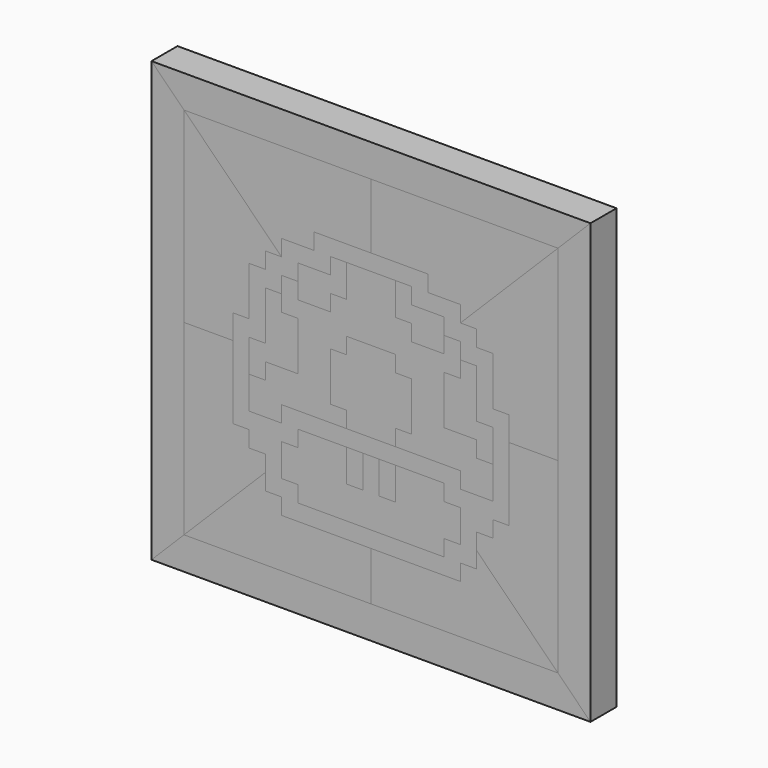
from build123d import *

# Parameters (mm, degrees)
F1_DEPTH = 25.4
F2_DEPTH = 25.4
F3_DEPTH = 25.4
F4_DEPTH = 25.4
F0_W     = 12.7
F0_H     = 25.4
F5_DEPTH = 25.4
F6_DEPTH = 25.4
F7_DEPTH = 25.4


with BuildPart() as f1:
    # F0 (on Front) → F1 (new body)
    with BuildSketch(Plane.XZ):
        Polygon((171.45, 171.45), (-171.45, 171.45), (-146.05, 146.05), (0, 146.05), (146.05, 146.05), align=None)
        Polygon((-146.05, -146.05), (-171.45, -171.45), (171.45, -171.45), (146.05, -146.05), (0, -146.05), align=None)
        Polygon((-146.05, 0), (-146.05, -146.05), (-82.49177, -82.49177), (-82.49177, -69.819165), (-95.191733, -69.849955), (-95.191733, -57.149955), (-107.891733, -57.149955), (-107.891733, 0), align=None)
        Polygon((82.49177, -82.49177), (146.05, -146.05), (146.05, 0), (107.891733, 0), (107.891733, -57.149955), (95.191733, -57.149955), (95.191733, -69.849955), (82.49177, -69.819165), align=None)
    extrude(amount=F1_DEPTH)


with BuildPart() as f2:
    # F0 (on Front) → F2 (new body)
    with BuildSketch(Plane.XZ):
        Polygon((-146.05, 146.05), (-171.45, 171.45), (-171.45, -171.45), (-146.05, -146.05), (-146.05, 0), align=None)
        Polygon((171.45, -171.45), (171.45, 171.45), (146.05, 146.05), (146.05, 0), (146.05, -146.05), align=None)
        Polygon((-82.49177, -82.49177), (-146.05, -146.05), (0, -146.05), (0, -107.91921), (-69.79177, -107.91921), (-69.79177, -95.21921), (-82.49177, -95.21921), align=None)
        Polygon((-19.05, -19.05), (-19.05, -31.75), (19.05, -31.75), (19.05, -19.05), (31.75, -19.05), (31.75, 19.05), (19.05, 19.05), (19.05, 31.75), (-19.05, 31.75), (-19.05, 19.05), (-31.75, 19.05), (-31.75, -19.05), align=None)
    extrude(amount=F2_DEPTH)


with BuildPart() as f3:
    # F0 (on Front) → F3 (new body)
    with BuildSketch(Plane.XZ):
        Polygon((0, -146.05), (146.05, -146.05), (82.49177, -82.49177), (82.49177, -95.21921), (69.79177, -95.21921), (69.79177, -107.91921), (0, -107.91921), align=None)
        Polygon((-69.85, 69.85), (-146.05, 146.05), (-146.05, 0), (-107.891733, 0), (-107.891733, 19.050045), (-95.191733, 19.050045), (-95.25, 57.15), (-82.55, 57.15), (-82.55, 69.85), align=None)
        Polygon((69.85, 69.85), (146.05, 146.05), (0, 146.05), (0, 95.25), (44.45, 95.25), (44.45, 82.55), (69.85, 82.55), align=None)
    extrude(amount=F3_DEPTH)


with BuildPart() as f4:
    # F0 (on Front) → F4 (new body)
    with BuildSketch(Plane.XZ):
        Polygon((0, 146.05), (-146.05, 146.05), (-69.85, 69.85), (-69.85, 82.55), (-44.45, 82.55), (-44.45, 95.25), (0, 95.25), align=None)
        Polygon((146.05, 0), (146.05, 146.05), (69.85, 69.85), (82.55, 69.85), (82.55, 57.15), (95.25, 57.15), (95.191733, 19.050045), (107.891733, 19.050045), (107.891733, 0), align=None)
        Polygon((-95.191733, -44.45), (-69.791733, -44.45), (-69.791733, -31.75), (-19.05, -31.75), (-19.05, -19.05), (-31.75, -19.05), (-31.75, 19.05), (-19.05, 19.05), (-19.05, 31.75), (19.05, 31.75), (19.05, 19.05), (31.75, 19.05), (31.75, -19.05), (19.05, -19.05), (19.05, -31.75), (69.791733, -31.75), (69.791733, -44.45), (95.191733, -44.45), (95.191733, -19.05), (82.491733, -19.05), (82.491733, -6.35), (57.091733, -6.35), (57.091733, 31.75), (69.791733, 31.75), (69.791733, 44.45), (69.791733, 57.15), (57.091733, 57.15), (57.091733, 44.45), (31.691733, 44.45), (31.691733, 57.15), (18.991733, 57.15), (18.991733, 82.55), (0, 82.55), (-18.991733, 82.55), (-18.991733, 57.15), (-31.691733, 57.15), (-31.691733, 44.45), (-57.091733, 44.45), (-57.091733, 57.15), (-69.791733, 57.15), (-69.791733, 44.45), (-69.791733, 31.75), (-57.091733, 31.75), (-57.091733, -6.35), (-82.491733, -6.35), (-82.491733, -19.05), (-95.191733, -19.05), align=None)
    extrude(amount=F4_DEPTH)


with BuildPart() as f5:
    # F0 (on Front) → F5 (new body)
    with BuildSketch(Plane.XZ):
        with Locations((-12.7, -57.15)):
            Rectangle(F0_W, F0_H)
        with Locations((12.7, -57.15)):
            Rectangle(F0_W, F0_H)
        Polygon((82.491733, -19.05), (95.191733, -19.05), (95.191733, 6.35), (82.491733, 6.35), (82.491733, 44.45), (69.791733, 44.45), (69.791733, 31.75), (57.091733, 31.75), (57.091733, -6.35), (82.491733, -6.35), align=None)
        Polygon((57.091733, 44.45), (57.091733, 57.15), (57.091733, 69.85), (31.691733, 69.85), (31.691733, 82.55), (18.991733, 82.55), (18.991733, 57.15), (31.691733, 57.15), (31.691733, 44.45), align=None)
        Polygon((-57.091733, 69.85), (-57.091733, 57.15), (-57.091733, 44.45), (-31.691733, 44.45), (-31.691733, 57.15), (-18.991733, 57.15), (-18.991733, 82.55), (-31.691733, 82.55), (-31.691733, 69.85), align=None)
        Polygon((-95.191733, 6.35), (-95.191733, -19.05), (-82.491733, -19.05), (-82.491733, -6.35), (-57.091733, -6.35), (-57.091733, 31.75), (-69.791733, 31.75), (-69.791733, 44.45), (-82.491733, 44.45), (-82.491733, 6.35), align=None)
    extrude(amount=F5_DEPTH)


with BuildPart() as f6:
    # F0 (on Front) → F6 (new body)
    with BuildSketch(Plane.XZ):
        Polygon((-57.091733, -82.55), (-57.091733, -95.21921), (0, -95.21921), (57.091733, -95.21921), (57.091733, -82.55), (69.791733, -82.55), (69.791733, -57.15), (57.091733, -57.15), (57.091733, -44.45), (19.05, -44.45), (19.05, -69.85), (6.35, -69.85), (6.35, -44.45), (0, -44.45), (-6.35, -44.45), (-6.35, -69.85), (-19.05, -69.85), (-19.05, -44.45), (-57.091733, -44.45), (-57.091733, -57.15), (-69.791733, -57.15), (-69.791733, -82.55), align=None)
    extrude(amount=F6_DEPTH)


with BuildPart() as f7:
    # F0 (on Front) → F7 (new body)
    with BuildSketch(Plane.XZ):
        Polygon((-69.85, 82.55), (-69.85, 69.85), (-82.55, 69.85), (-82.55, 57.15), (-95.25, 57.15), (-95.191733, 19.050045), (-107.891733, 19.050045), (-107.891733, 0), (-107.891733, -57.149955), (-95.191733, -57.149955), (-95.191733, -69.849955), (-82.49177, -69.819165), (-82.49177, -82.49177), (-82.49177, -95.21921), (-69.79177, -95.21921), (-69.79177, -107.91921), (0, -107.91921), (69.79177, -107.91921), (69.79177, -95.21921), (82.49177, -95.21921), (82.49177, -82.49177), (82.49177, -69.819165), (95.191733, -69.849955), (95.191733, -57.149955), (107.891733, -57.149955), (107.891733, 0), (107.891733, 19.050045), (95.191733, 19.050045), (95.25, 57.15), (82.55, 57.15), (82.55, 69.85), (69.85, 69.85), (69.85, 82.55), (44.45, 82.55), (44.45, 95.25), (0, 95.25), (-44.45, 95.25), (-44.45, 82.55), align=None)
        Polygon((0, -95.21921), (-57.091733, -95.21921), (-57.091733, -82.55), (-69.791733, -82.55), (-69.791733, -57.15), (-57.091733, -57.15), (-57.091733, -44.45), (-19.05, -44.45), (-6.35, -44.45), (0, -44.45), (6.35, -44.45), (19.05, -44.45), (57.091733, -44.45), (57.091733, -57.15), (69.791733, -57.15), (69.791733, -82.55), (57.091733, -82.55), (57.091733, -95.21921), align=None, mode=Mode.SUBTRACT)
        Polygon((-69.791733, -31.75), (-69.791733, -44.45), (-95.191733, -44.45), (-95.191733, -19.05), (-95.191733, 6.35), (-82.491733, 6.35), (-82.491733, 44.45), (-69.791733, 44.45), (-69.791733, 57.15), (-57.091733, 57.15), (-57.091733, 69.85), (-31.691733, 69.85), (-31.691733, 82.55), (-18.991733, 82.55), (0, 82.55), (18.991733, 82.55), (31.691733, 82.55), (31.691733, 69.85), (57.091733, 69.85), (57.091733, 57.15), (69.791733, 57.15), (69.791733, 44.45), (82.491733, 44.45), (82.491733, 6.35), (95.191733, 6.35), (95.191733, -19.05), (95.191733, -44.45), (69.791733, -44.45), (69.791733, -31.75), (19.05, -31.75), (-19.05, -31.75), align=None, mode=Mode.SUBTRACT)
    extrude(amount=F7_DEPTH)


solid = Compound([f1.part, f2.part, f3.part, f4.part, f5.part, f6.part, f7.part])
